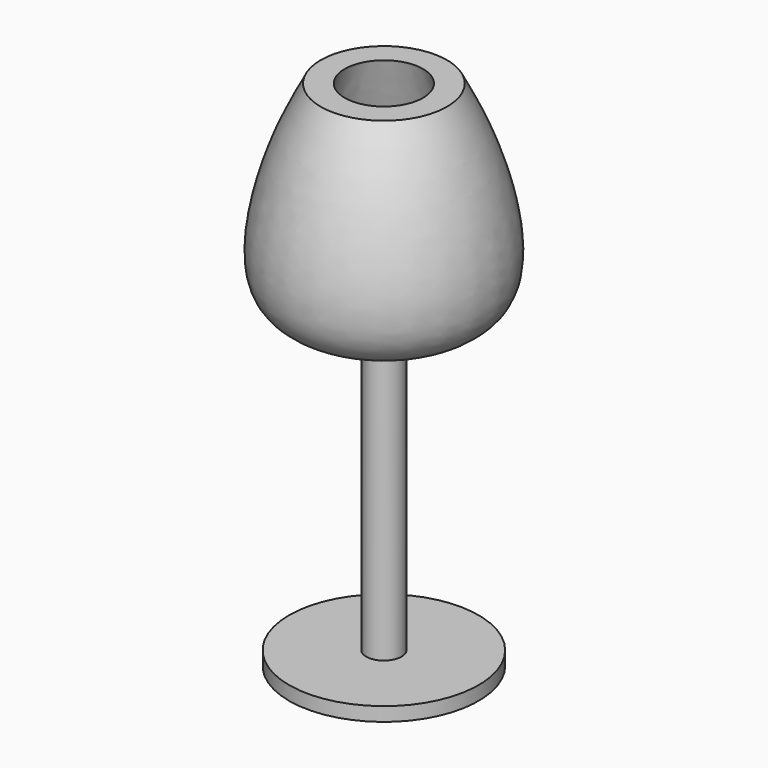
from build123d import *


with BuildPart() as f1:
    # F0 (on Front) → F1 (revolve)
    with BuildSketch(Plane.XZ):
        with BuildLine():
            Line((-26.6725718975, -75.5722820759), (0, -75.5722820759))
            Line((0, -75.5722820759), (0, 15.8257279545))
            add(Edge.make_bspline(
                [(-11.0246650875, 68.8152387738), (-13.0319182183, 61.6892423346), (-17.1020054937, 47.2399299955), (-27.4894427467, 15.6142705276), (-8.8924216575, 15.7573246544), (0, 15.8257279545)],
                knots=[0, 0, 0, 0, 0.3367714548, 0.6828681405, 1, 1, 1, 1], degree=3))
            Line((-11.0246650875, 68.8152387738), (-17.7817139775, 68.8152387738))
            add(Edge.make_bspline(
                [(-4.9788798206, 6.9348705001), (-14.7560330129, 8.6892290012), (-35.3441774531, 12.3834522081), (-27.5698066923, 49.9831757822), (-20.8500701315, 62.9117928158), (-17.7817139775, 68.8152387738)],
                knots=[0, 0, 0, 0, 0.3294975078, 0.6938361452, 1, 1, 1, 1], degree=3))
            Line((-4.9788798206, 6.9348705001), (-4.9788798206, -71.6603025794))
            Line((-4.9788798206, -71.6603025794), (-26.6725718975, -71.6603025794))
            Line((-26.6725718975, -71.6603025794), (-26.6725718975, -75.5722820759))
        make_face()
    revolve(axis=Axis((0, 0, -1.244712621), (0, 0, -1)))


solid = f1.part
